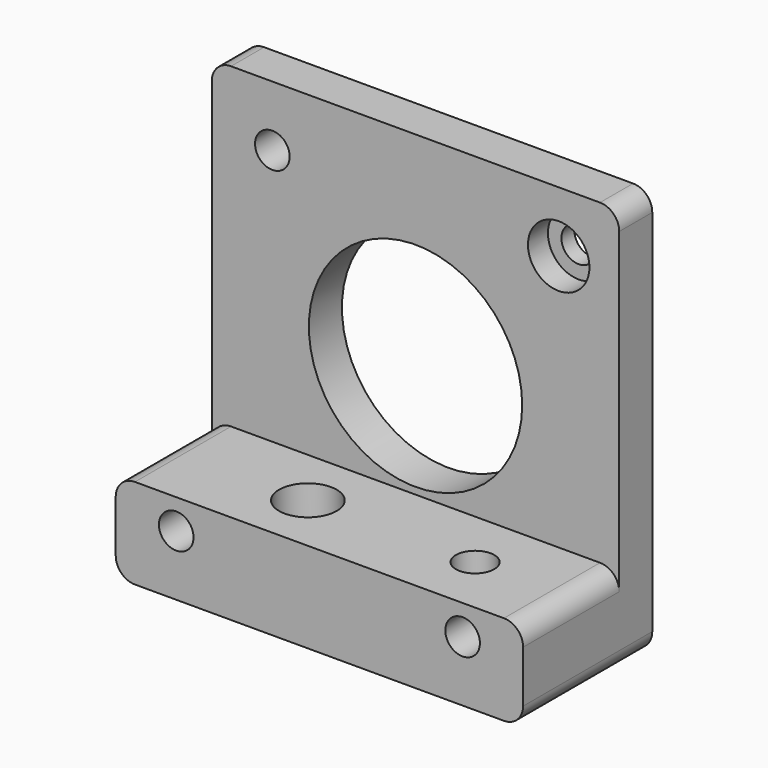
from build123d import *

# Parameters (mm, degrees)
F0_R     = 1.8
F0_R_2   = 11.1
F0_R_3   = 3.2
F2_DEPTH = 4.3
F3_DEPTH = 1.7
F4_DEPTH = 16.8
F5_R     = 3
F5_R_2   = 2
F6_DEPTH = 42.401
F5_R_3   = 3.75
F7_DEPTH = 2.8


with BuildPart() as f2:
    # F0 (on Front) → F2 (new body, through all)
    with BuildSketch(Plane.XZ):
        with BuildLine():
            ThreePointArc((-19.2, -11.8), (-20.614214, -12.385786), (-21.2, -13.8))
            Line((-21.2, -13.8), (-21.2, -19.2))
            ThreePointArc((-21.2, -19.2), (-20.614214, -20.614214), (-19.2, -21.2))
            Line((-19.2, -21.2), (19.2, -21.2))
            ThreePointArc((19.2, -21.2), (20.614214, -20.614214), (21.2, -19.2))
            Line((21.2, -19.2), (21.2, -13.8))
            ThreePointArc((21.2, -13.8), (20.614214, -12.385786), (19.2, -11.8))
            Line((19.2, -11.8), (-19.2, -11.8))
        make_face()
        with Locations((-14.9, -14.9)):
            Circle(F0_R, mode=Mode.SUBTRACT)
        with Locations((14.9, -14.9)):
            Circle(F0_R, mode=Mode.SUBTRACT)
        with BuildLine():
            Line((19.2, 21.2), (-19.2, 21.2))
            ThreePointArc((-19.2, 21.2), (-20.614214, 20.614214), (-21.2, 19.2))
            Line((-21.2, 19.2), (-21.2, -13.8))
            ThreePointArc((-21.2, -13.8), (-20.614214, -12.385786), (-19.2, -11.8))
            Line((-19.2, -11.8), (19.2, -11.8))
            ThreePointArc((19.2, -11.8), (20.614214, -12.385786), (21.2, -13.8))
            Line((21.2, -13.8), (21.2, 19.2))
            ThreePointArc((21.2, 19.2), (20.614214, 20.614214), (19.2, 21.2))
        make_face()
        with Locations((-14.9, 14.9)):
            Circle(F0_R, mode=Mode.SUBTRACT)
        Circle(F0_R_2, mode=Mode.SUBTRACT)
        with Locations((14.9, 14.9)):
            Circle(F0_R_3, mode=Mode.SUBTRACT)
    extrude(amount=F2_DEPTH)

    # F0 (on Front) → F3 (join, through all)
    with BuildSketch(Plane.XZ):
        with Locations((14.9, 14.9)):
            Circle(F0_R_3)
        with Locations((14.9, 14.9)):
            Circle(F0_R, mode=Mode.SUBTRACT)
    extrude(amount=F3_DEPTH)

    # F0 (on Front) → F4 (join, through all)
    with BuildSketch(Plane.XZ):
        with BuildLine():
            ThreePointArc((-19.2, -11.8), (-20.614214, -12.385786), (-21.2, -13.8))
            Line((-21.2, -13.8), (-21.2, -19.2))
            ThreePointArc((-21.2, -19.2), (-20.614214, -20.614214), (-19.2, -21.2))
            Line((-19.2, -21.2), (19.2, -21.2))
            ThreePointArc((19.2, -21.2), (20.614214, -20.614214), (21.2, -19.2))
            Line((21.2, -19.2), (21.2, -13.8))
            ThreePointArc((21.2, -13.8), (20.614214, -12.385786), (19.2, -11.8))
            Line((19.2, -11.8), (-19.2, -11.8))
        make_face()
        with Locations((-14.9, -14.9)):
            Circle(F0_R, mode=Mode.SUBTRACT)
        with Locations((14.9, -14.9)):
            Circle(F0_R, mode=Mode.SUBTRACT)
    extrude(amount=F4_DEPTH)

    # F5 (on face) → F6 (cut, through all)
    with BuildSketch(Plane(origin=(0, 0, -21.2), x_dir=(1, 0, 0), z_dir=(0, 0, -1))):
        with Locations((-6.2, 10.55)):
            Circle(F5_R)
        with Locations((11.2, 10.55)):
            Circle(F5_R_2)
    extrude(amount=-F6_DEPTH, mode=Mode.SUBTRACT)

    # F5 (on face) → F7 (cut, through all)
    with BuildSketch(Plane(origin=(0, 0, -21.2), x_dir=(1, 0, 0), z_dir=(0, 0, -1))):
        with Locations((11.2, 10.55)):
            Circle(F5_R_3)
        with Locations((11.2, 10.55)):
            Circle(F5_R_2, mode=Mode.SUBTRACT)
    extrude(amount=-F7_DEPTH, mode=Mode.SUBTRACT)


solid = f2.part
